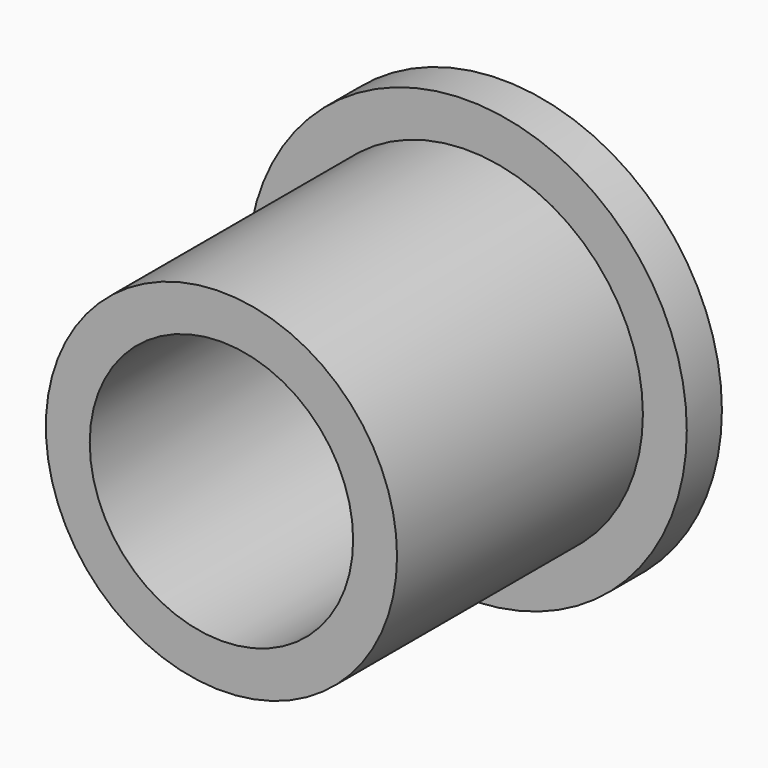
from build123d import *

# Parameters (mm, degrees)
F1_R     = 12.7
F3_DEPTH = 25.4
F0_R     = 15.875
F4_DEPTH = 3.175
F2_R     = 9.525
F5_DEPTH = 25.401


with BuildPart() as f3:
    # F1 (on face) → F3 (new body)
    with BuildSketch(Plane.XZ):
        Circle(F1_R)
    extrude(amount=F3_DEPTH)

    # F0 (on Front) → F4 (join)
    with BuildSketch(Plane.XZ):
        Circle(F0_R)
    extrude(amount=F4_DEPTH)

    # F2 (on face) → F5 (cut, through all)
    with BuildSketch(Plane.XZ):
        Circle(F2_R)
    extrude(amount=F5_DEPTH, mode=Mode.SUBTRACT)


solid = f3.part
